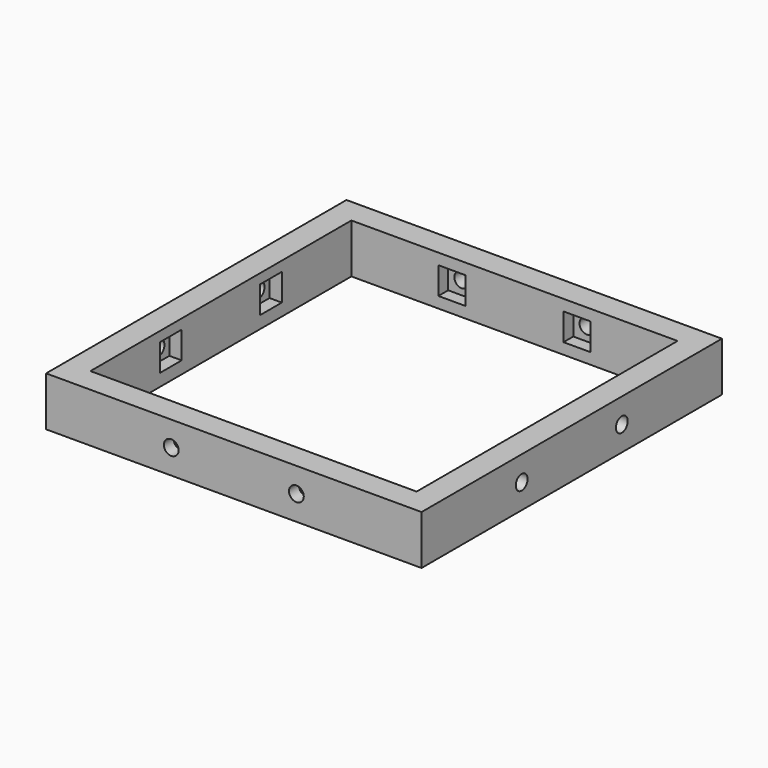
from build123d import *

# Parameters (mm, degrees)
CYLINDER001_R           = 1.5
CYLINDER001_DEPTH       = 5
CYLINDER001_PITCH_ANGLE = 90
CYLINDER002_R           = 1.5
CYLINDER002_DEPTH       = 5
CYLINDER002_PITCH_ANGLE = 90
CYLINDER003_R           = 1.5
CYLINDER003_DEPTH       = 5
CYLINDER003_PITCH_ANGLE = 90
CYLINDER004_R           = 1.5
CYLINDER004_DEPTH       = 5
CYLINDER004_ROLL_ANGLE  = 90.0000000001
CYLINDER005_R           = 1.5
CYLINDER005_DEPTH       = 5
CYLINDER005_ROLL_ANGLE  = 90.0000000001
CYLINDER006_R           = 1.5
CYLINDER006_DEPTH       = 5
CYLINDER006_ROLL_ANGLE  = 90.0000000001
CYLINDER007_R           = 1.5
CYLINDER007_DEPTH       = 5
CYLINDER007_ROLL_ANGLE  = 90.0000000001
CYLINDER_R              = 1.5
CYLINDER_DEPTH          = 5
CYLINDER_PITCH_ANGLE    = 90
BOX008_W                = 5.5
BOX008_H                = 2.5
BOX008_DEPTH            = 5.5
BOX008_PLACEMENT_ANGLE  = -90.0000000001
BOX009_W                = 5.5
BOX009_H                = 2.5
BOX009_DEPTH            = 5.5
BOX009_PLACEMENT_ANGLE  = -90.0000000001
BOX007_W                = 5.5
BOX007_H                = 2.5
BOX007_DEPTH            = 5.5
BOX007_PLACEMENT_ANGLE  = -90.0000000001
BOX006_W                = 5.5
BOX006_H                = 2.5
BOX006_DEPTH            = 5.5
BOX006_PLACEMENT_ANGLE  = -90.0000000001
BOX005_W                = 5.5
BOX005_H                = 2.5
BOX005_DEPTH            = 5.5
BOX004_W                = 5.5
BOX004_H                = 2.5
BOX004_DEPTH            = 5.5
BOX003_W                = 5.5
BOX003_H                = 2.5
BOX003_DEPTH            = 5.5
BOX002_W                = 5.5
BOX002_H                = 2.5
BOX002_DEPTH            = 5.5
BOX001_W                = 66.1999969482
BOX001_H                = 66.1999969482
BOX001_DEPTH            = 10
BOX_W                   = 76.1999969482
BOX_H                   = 76.1999969482
BOX_DEPTH               = 10


with BuildPart() as cylinder001:
    # Cylinder001 → Cylinder001 (new body)
    with BuildSketch(Plane.XY):
        Circle(CYLINDER001_R)
    extrude(amount=CYLINDER001_DEPTH)


with BuildPart() as cylinder001_1:
    # Cylinder001 pitch: moved
    add(cylinder001.part.rotate(Axis((0, 0, 0), (0, 1, 0)), CYLINDER001_PITCH_ANGLE))


with BuildPart() as cylinder001_2:
    # Cylinder001 placement: moved
    add(cylinder001_1.part.moved(Location((0, 50.8, 5))))


with BuildPart() as cylinder002:
    # Cylinder002 → Cylinder002 (new body)
    with BuildSketch(Plane.XY):
        Circle(CYLINDER002_R)
    extrude(amount=CYLINDER002_DEPTH)


with BuildPart() as cylinder002_1:
    # Cylinder002 pitch: moved
    add(cylinder002.part.rotate(Axis((0, 0, 0), (0, 1, 0)), CYLINDER002_PITCH_ANGLE))


with BuildPart() as cylinder002_2:
    # Cylinder002 placement: moved
    add(cylinder002_1.part.moved(Location((71.2, 50.8, 5))))


with BuildPart() as cylinder003:
    # Cylinder003 → Cylinder003 (new body)
    with BuildSketch(Plane.XY):
        Circle(CYLINDER003_R)
    extrude(amount=CYLINDER003_DEPTH)


with BuildPart() as cylinder003_1:
    # Cylinder003 pitch: moved
    add(cylinder003.part.rotate(Axis((0, 0, 0), (0, 1, 0)), CYLINDER003_PITCH_ANGLE))


with BuildPart() as cylinder003_2:
    # Cylinder003 placement: moved
    add(cylinder003_1.part.moved(Location((71.2, 25.4, 5))))


with BuildPart() as cylinder004:
    # Cylinder004 → Cylinder004 (new body)
    with BuildSketch(Plane.XY):
        Circle(CYLINDER004_R)
    extrude(amount=CYLINDER004_DEPTH)


with BuildPart() as cylinder004_1:
    # Cylinder004 roll: moved
    add(cylinder004.part.rotate(Axis((0, 0, 0), (1, 0, 0)), CYLINDER004_ROLL_ANGLE))


with BuildPart() as cylinder004_2:
    # Cylinder004 placement: moved
    add(cylinder004_1.part.moved(Location((25.4, 5, 5))))


with BuildPart() as cylinder005:
    # Cylinder005 → Cylinder005 (new body)
    with BuildSketch(Plane.XY):
        Circle(CYLINDER005_R)
    extrude(amount=CYLINDER005_DEPTH)


with BuildPart() as cylinder005_1:
    # Cylinder005 roll: moved
    add(cylinder005.part.rotate(Axis((0, 0, 0), (1, 0, 0)), CYLINDER005_ROLL_ANGLE))


with BuildPart() as cylinder005_2:
    # Cylinder005 placement: moved
    add(cylinder005_1.part.moved(Location((50.8, 5, 5))))


with BuildPart() as cylinder006:
    # Cylinder006 → Cylinder006 (new body)
    with BuildSketch(Plane.XY):
        Circle(CYLINDER006_R)
    extrude(amount=CYLINDER006_DEPTH)


with BuildPart() as cylinder006_1:
    # Cylinder006 roll: moved
    add(cylinder006.part.rotate(Axis((0, 0, 0), (1, 0, 0)), CYLINDER006_ROLL_ANGLE))


with BuildPart() as cylinder006_2:
    # Cylinder006 placement: moved
    add(cylinder006_1.part.moved(Location((50.8, 76.2, 5))))


with BuildPart() as cylinder007:
    # Cylinder007 → Cylinder007 (new body)
    with BuildSketch(Plane.XY):
        Circle(CYLINDER007_R)
    extrude(amount=CYLINDER007_DEPTH)


with BuildPart() as cylinder007_1:
    # Cylinder007 roll: moved
    add(cylinder007.part.rotate(Axis((0, 0, 0), (1, 0, 0)), CYLINDER007_ROLL_ANGLE))


with BuildPart() as cylinder007_2:
    # Cylinder007 placement: moved
    add(cylinder007_1.part.moved(Location((25.4, 76.2, 5))))


with BuildPart() as cylinder:
    # Cylinder → Cylinder (new body)
    with BuildSketch(Plane.XY):
        Circle(CYLINDER_R)
    extrude(amount=CYLINDER_DEPTH)


with BuildPart() as cylinder_1:
    # Cylinder pitch: moved
    add(cylinder.part.rotate(Axis((0, 0, 0), (0, 1, 0)), CYLINDER_PITCH_ANGLE))


with BuildPart() as cylinder_2:
    # Cylinder placement: moved
    add(cylinder_1.part.moved(Location((0, 25.4, 5))))


with BuildPart() as box008:
    # Box008 → Box008 (new body)
    with BuildSketch(Plane.XY):
        with Locations((2.75, 1.25)):
            Rectangle(BOX008_W, BOX008_H)
    extrude(amount=BOX008_DEPTH)


with BuildPart() as box008_1:
    # Box008 placement: moved
    add(box008.part.moved(Location((71.19, 28.15, 2.5))).rotate(Axis((71.19, 28.15, 2.5), (0, 0, 1)), BOX008_PLACEMENT_ANGLE))


with BuildPart() as box009:
    # Box009 → Box009 (new body)
    with BuildSketch(Plane.XY):
        with Locations((2.75, 1.25)):
            Rectangle(BOX009_W, BOX009_H)
    extrude(amount=BOX009_DEPTH)


with BuildPart() as box009_1:
    # Box009 placement: moved
    add(box009.part.moved(Location((71.19, 53.55, 2.5))).rotate(Axis((71.19, 53.55, 2.5), (0, 0, 1)), BOX009_PLACEMENT_ANGLE))


with BuildPart() as box007:
    # Box007 → Box007 (new body)
    with BuildSketch(Plane.XY):
        with Locations((2.75, 1.25)):
            Rectangle(BOX007_W, BOX007_H)
    extrude(amount=BOX007_DEPTH)


with BuildPart() as box007_1:
    # Box007 placement: moved
    add(box007.part.moved(Location((2.5, 53.55, 2.5))).rotate(Axis((2.5, 53.55, 2.5), (0, 0, 1)), BOX007_PLACEMENT_ANGLE))


with BuildPart() as box006:
    # Box006 → Box006 (new body)
    with BuildSketch(Plane.XY):
        with Locations((2.75, 1.25)):
            Rectangle(BOX006_W, BOX006_H)
    extrude(amount=BOX006_DEPTH)


with BuildPart() as box006_1:
    # Box006 placement: moved
    add(box006.part.moved(Location((2.5, 28.15, 2.5))).rotate(Axis((2.5, 28.15, 2.5), (0, 0, 1)), BOX006_PLACEMENT_ANGLE))


with BuildPart() as box005:
    # Box005 → Box005 (new body)
    with BuildSketch(Plane(origin=(22.65, 71.19, 2.25), x_dir=(1, 0, 0), z_dir=(0, 0, 1))):
        with Locations((2.75, 1.25)):
            Rectangle(BOX005_W, BOX005_H)
    extrude(amount=BOX005_DEPTH)


with BuildPart() as box004:
    # Box004 → Box004 (new body)
    with BuildSketch(Plane(origin=(48.05, 71.19, 2.25), x_dir=(1, 0, 0), z_dir=(0, 0, 1))):
        with Locations((2.75, 1.25)):
            Rectangle(BOX004_W, BOX004_H)
    extrude(amount=BOX004_DEPTH)


with BuildPart() as box003:
    # Box003 → Box003 (new body)
    with BuildSketch(Plane(origin=(48.05, 2.5, 2.25), x_dir=(1, 0, 0), z_dir=(0, 0, 1))):
        with Locations((2.75, 1.25)):
            Rectangle(BOX003_W, BOX003_H)
    extrude(amount=BOX003_DEPTH)


with BuildPart() as box002:
    # Box002 → Box002 (new body)
    with BuildSketch(Plane(origin=(22.65, 2.5, 2.25), x_dir=(1, 0, 0), z_dir=(0, 0, 1))):
        with Locations((2.75, 1.25)):
            Rectangle(BOX002_W, BOX002_H)
    extrude(amount=BOX002_DEPTH)


with BuildPart() as box001:
    # Box001 → Box001 (new body)
    with BuildSketch(Plane(origin=(5, 5, 0), x_dir=(1, 0, 0), z_dir=(0, 0, 1))):
        with Locations((33.0999984741, 33.0999984741)):
            Rectangle(BOX001_W, BOX001_H)
    extrude(amount=BOX001_DEPTH)


with BuildPart() as cut016:
    # Box → Box (new body)
    with BuildSketch(Plane.XY):
        with Locations((38.0999984741, 38.0999984741)):
            Rectangle(BOX_W, BOX_H)
    extrude(amount=BOX_DEPTH)

    # Cut: cut Box001
    add(box001.part, mode=Mode.SUBTRACT)

    # Cut001: cut Box002
    add(box002.part, mode=Mode.SUBTRACT)

    # Cut002: cut Box003
    add(box003.part, mode=Mode.SUBTRACT)

    # Cut003: cut Box004
    add(box004.part, mode=Mode.SUBTRACT)

    # Cut004: cut Box005
    add(box005.part, mode=Mode.SUBTRACT)

    # Cut005: cut Box006
    add(box006_1.part, mode=Mode.SUBTRACT)

    # Cut006: cut Box007
    add(box007_1.part, mode=Mode.SUBTRACT)

    # Cut007: cut Box009
    add(box009_1.part, mode=Mode.SUBTRACT)

    # Cut008: cut Box008
    add(box008_1.part, mode=Mode.SUBTRACT)

    # Cut009: cut Cylinder
    add(cylinder_2.part, mode=Mode.SUBTRACT)

    # Cut010: cut Cylinder007
    add(cylinder007_2.part, mode=Mode.SUBTRACT)

    # Cut011: cut Cylinder006
    add(cylinder006_2.part, mode=Mode.SUBTRACT)

    # Cut012: cut Cylinder005
    add(cylinder005_2.part, mode=Mode.SUBTRACT)

    # Cut013: cut Cylinder004
    add(cylinder004_2.part, mode=Mode.SUBTRACT)

    # Cut014: cut Cylinder003
    add(cylinder003_2.part, mode=Mode.SUBTRACT)

    # Cut015: cut Cylinder002
    add(cylinder002_2.part, mode=Mode.SUBTRACT)

    # Cut016: cut Cylinder001
    add(cylinder001_2.part, mode=Mode.SUBTRACT)


solid = cut016.part
